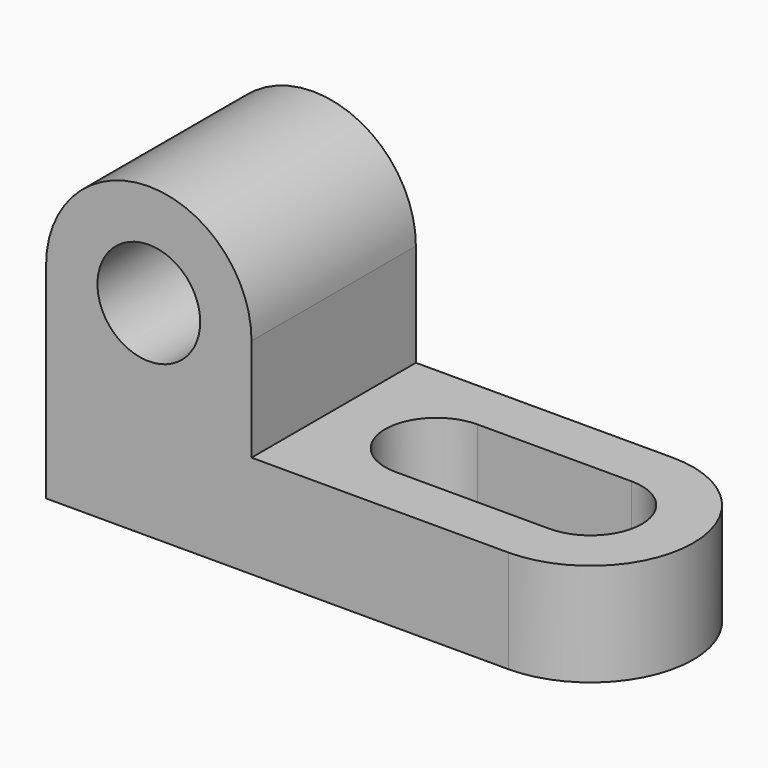
from build123d import *

# Parameters (mm, degrees)
F1_DEPTH = 25.4
F3_DEPTH = 12.7
F5_DEPTH = 25.4
F6_R     = 6.35
F7_DEPTH = 25.4


with BuildPart() as f1:
    # F0 (on Front) → F1 (new body)
    with BuildSketch(Plane.XZ):
        Polygon((-69.99563, 25.4), (-69.99563, 0), (-12.84563, 0), (-12.84563, 12.7), (-44.59563, 12.7), (-44.59563, 25.4), align=None)
        with BuildLine():
            ThreePointArc((-44.59563, 25.4), (-57.29563, 38.1), (-69.99563, 25.4))
            Line((-69.99563, 25.4), (-44.59563, 25.4))
        make_face()
    extrude(amount=F1_DEPTH)

    # F2 (on face) → F3 (join)
    with BuildSketch(Plane.XY.offset(12.7)):
        with BuildLine():
            Line((-12.84563, 0), (-12.84563, -25.4))
            ThreePointArc((-12.84563, -25.4), (-0.14563, -12.7), (-12.84563, 0))
        make_face()
    extrude(amount=-F3_DEPTH)

    # F4 (on face) → F5 (cut)
    with BuildSketch(Plane.XY.offset(12.7)):
        Polygon((-12.84563, -19.05), (-12.84563, -12.7), (-12.84563, -6.35), (-31.89563, -6.35), (-31.89563, -19.05), align=None)
        with BuildLine():
            Line((-12.84563, -6.35), (-12.84563, -12.7))
            Line((-12.84563, -12.7), (-12.84563, -19.05))
            ThreePointArc((-12.84563, -19.05), (-6.49563, -12.7), (-12.84563, -6.35))
        make_face()
        with BuildLine():
            Line((-31.89563, -19.05), (-31.89563, -6.35))
            ThreePointArc((-31.89563, -6.35), (-38.24563, -12.7), (-31.89563, -19.05))
        make_face()
    extrude(amount=-F5_DEPTH, mode=Mode.SUBTRACT)

    # F6 (on face) → F7 (cut)
    with BuildSketch(Plane.XZ.offset(25.4)):
        with Locations((-57.29563, 25.4)):
            Circle(F6_R)
    extrude(amount=-F7_DEPTH, mode=Mode.SUBTRACT)


solid = f1.part
